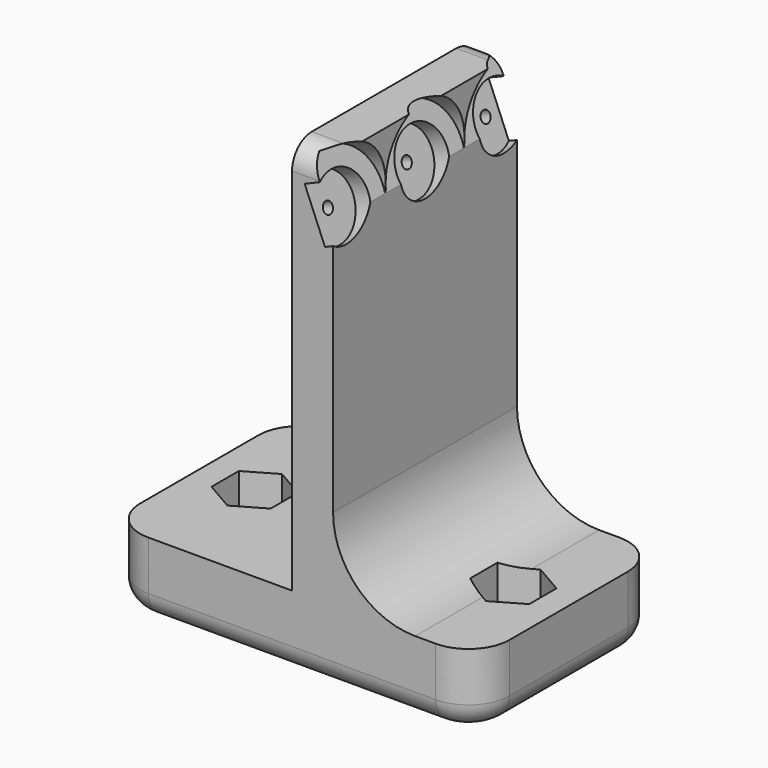
from build123d import *

# Parameters (mm, degrees)
PAD_DEPTH       = 14
FILLET_R        = 5
FILLET001_R     = 3
SKETCH001_R     = 2.25
POCKET_DEPTH    = 9.001
POCKET001_DEPTH = 5


with BuildPart() as part:
    # Sketch → Pad (new body, symmetric)
    with BuildSketch(Plane.XZ):
        with BuildLine():
            Line((-22.5, 0), (0, 0))
            Line((0, 0), (0, 48))
            Line((0, 48), (5, 48))
            Line((5, 48), (5, 10))
            ThreePointArc((5, 10), (7.928932, 2.928932), (15, 0))
            Line((22.5, 0), (15, 0))
            Line((22.5, 0), (22.5, -9))
            Line((22.5, -9), (-22.5, -9))
            Line((-22.5, -9), (-22.5, 0))
        make_face()
    extrude(amount=PAD_DEPTH, both=True)

    # Fillet
    fillet_edges = [part.edges().sort_by_distance(p)[0] for p in [
        (22.5, -14, -4.5),
        (22.5, 14, -4.5),
        (-22.5, -14, -4.5),
        (-22.5, 14, -4.5),
    ]]
    fillet(fillet_edges, radius=FILLET_R)

    # Fillet001
    fillet001_edges = [part.edges().sort_by_distance(p)[0] for p in [
        (0, -14, -9),
        (21.035534, -12.535534, -9),
        (22.5, 0, -9),
        (21.035534, 12.535534, -9),
        (0, 14, -9),
        (-21.035534, 12.535534, -9),
        (-22.5, 0, -9),
        (-21.035534, -12.535534, -9),
        (2.5, -14, 48),
        (2.5, 14, 48),
    ]]
    fillet(fillet001_edges, radius=FILLET001_R)

    # Sketch002 (on DatumPlane) → Groove (revolve, cut)
    with BuildSketch(Plane(origin=(0, 0, 40), x_dir=(0.92388, 0, 0.382683), z_dir=(-0.382683, 0, 0.92388))):
        Polygon((-7, 0), (-7, 0.7), (3, 0.7), (3, 3.8), (5, 3.8), (5, 6), (15, 6), (15, 0), align=None)
    groove = revolve(axis=Axis((0, 0, 40), (0.92388, 0, 0.382683)), mode=Mode.SUBTRACT)

    # Sketch001 → Pocket (cut, through all)
    with BuildSketch(Plane.XY):
        with Locations((-15.75, 0)):
            Circle(SKETCH001_R)
        with Locations((15.75, 0)):
            Circle(SKETCH001_R)
    extrude(amount=-POCKET_DEPTH, mode=Mode.SUBTRACT)

    # Sketch003 → Pocket001 (cut, symmetric)
    with BuildSketch(Plane.XY):
        Polygon((19.35, -2.078461), (19.35, 2.078461), (15.75, 4.156922), (12.15, 2.078461), (12.15, -2.078461), (15.75, -4.156922), align=None)
        Polygon((-12.15, -2.078461), (-12.15, 2.078461), (-15.75, 4.156922), (-19.35, 2.078461), (-19.35, -2.078461), (-15.75, -4.156922), align=None)
    extrude(amount=POCKET001_DEPTH, both=True, mode=Mode.SUBTRACT)

    # Sketch002 LinearPattern 2 → Groove LinearPattern 2 (revolve, cut)
    with BuildSketch(Plane(origin=(0, 12, 40), x_dir=(0.92388, 0, 0.382683), z_dir=(-0.382683, 0, 0.92388))):
        Polygon((-7, 0), (-7, 0.7), (3, 0.7), (3, 3.8), (5, 3.8), (5, 6), (15, 6), (15, 0), align=None)
    groove_linearpattern_2 = revolve(axis=Axis((0, 12, 40), (0.92388, 0, 0.382683)), mode=Mode.SUBTRACT)

    # Mirrored: Groove, Groove LinearPattern 2 across XZ
    add(groove.mirror(Plane.XZ), mode=Mode.SUBTRACT)
    add(groove_linearpattern_2.mirror(Plane.XZ), mode=Mode.SUBTRACT)


solid = part.part
